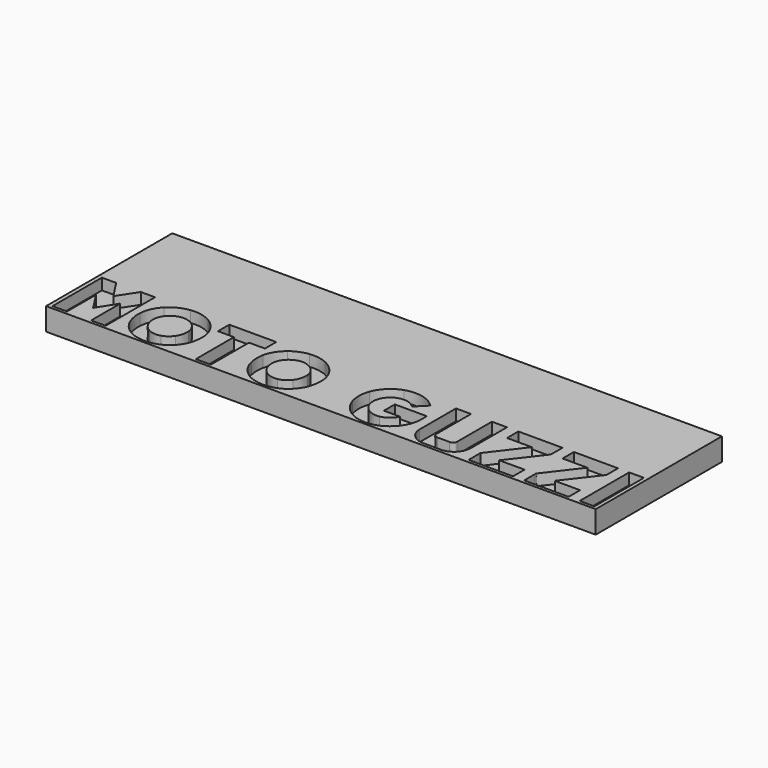
from build123d import *

# Parameters (mm, degrees)
PAD_DEPTH       = 10
POCKET_DEPTH    = 5
POCKET001_DEPTH = 5
POCKET002_DEPTH = 5
POCKET003_DEPTH = 5
POCKET004_DEPTH = 5
POCKET005_DEPTH = 5
POCKET006_DEPTH = 5
POCKET007_DEPTH = 5
POCKET008_DEPTH = 5


with BuildPart() as part:
    # Sketch010 → Pad (new body)
    with BuildSketch(Plane.XY):
        with BuildLine():
            add(Edge.make_bspline(
                [(0, 0), (244.230769, 0)],
                knots=[0, 0, 1756, 1756], degree=1))
            add(Edge.make_bspline(
                [(244.230769, 0), (244.230769, -70.098125)],
                knots=[0, 0, 504, 504], degree=1))
            add(Edge.make_bspline(
                [(244.230769, -70.098125), (0, -70.098125)],
                knots=[0, 0, 1756, 1756], degree=1))
            add(Edge.make_bspline(
                [(0, -70.098125), (0, 0)],
                knots=[0, 0, 504, 504], degree=1))
        make_face()
    extrude(amount=-PAD_DEPTH)

    # Sketch005 → Pocket (cut)
    with BuildSketch(Plane.XY):
        with BuildLine():
            add(Edge.make_bspline(
                [(1.742717, -68.743451), (1.731591, -59.586188), (1.732981, -50.428925), (1.742717, -41.273053)],
                knots=[0, 0, 0, 0, 1, 1, 1, 1], degree=3))
            add(Edge.make_bspline(
                [(1.742717, -41.273053), (3.852615, -41.275835), (5.961122, -41.270271), (8.07102, -41.274444)],
                knots=[0, 0, 0, 0, 1, 1, 1, 1], degree=3))
            add(Edge.make_bspline(
                [(8.07102, -41.274444), (9.898579, -44.057506), (11.716401, -46.846132), (13.549523, -49.623631)],
                knots=[0, 0, 0, 0, 1, 1, 1, 1], degree=3))
            add(Edge.make_bspline(
                [(13.549523, -49.623631), (15.382644, -46.840569), (17.201857, -44.049161), (19.044715, -41.273053)],
                knots=[0, 0, 0, 0, 1, 1, 1, 1], degree=3))
            add(Edge.make_bspline(
                [(19.044715, -41.273053), (21.144877, -41.274444), (23.245039, -41.271662), (25.346592, -41.274444)],
                knots=[0, 0, 0, 0, 1, 1, 1, 1], degree=3))
            add(Edge.make_bspline(
                [(25.346592, -41.274444), (25.347983, -50.430316), (25.349374, -59.586188), (25.346592, -68.74206)],
                knots=[0, 0, 0, 0, 1, 1, 1, 1], degree=3))
            add(Edge.make_bspline(
                [(25.346592, -68.74206), (18.915367, -68.74206)],
                knots=[0, 0, 46.24, 46.24], degree=1))
            add(Edge.make_bspline(
                [(18.915367, -68.74206), (18.905631, -63.341445), (18.934839, -57.940829), (18.901459, -52.540214)],
                knots=[0, 0, 0, 0, 1, 1, 1, 1], degree=3))
            add(Edge.make_bspline(
                [(18.901459, -52.540214), (17.12258, -55.339966), (15.32562, -58.128592), (13.555086, -60.933908)],
                knots=[0, 0, 0, 0, 1, 1, 1, 1], degree=3))
            add(Edge.make_bspline(
                [(13.555086, -60.933908), (11.74839, -58.156409), (9.997328, -55.344139), (8.20315, -52.559685)],
                knots=[0, 0, 0, 0, 1, 1, 1, 1], degree=3))
            add(Edge.make_bspline(
                [(8.20315, -52.559685), (8.139171, -57.951956), (8.193414, -63.347008), (8.175333, -68.740669)],
                knots=[0, 0, 0, 0, 1, 1, 1, 1], degree=3))
            add(Edge.make_bspline(
                [(8.175333, -68.740669), (6.030664, -68.744842), (3.887386, -68.737888), (1.742717, -68.743451)],
                knots=[0, 0, 0, 0, 1, 1, 1, 1], degree=3))
        make_face()
    extrude(amount=-POCKET_DEPTH, mode=Mode.SUBTRACT)

    # Sketch008 → Pocket001 (cut)
    with BuildSketch(Plane.XY):
        with BuildLine():
            add(Edge.make_bspline(
                [(41.107543, -41.13536), (44.328719, -40.738972), (47.683415, -41.439953), (50.45396, -43.136773)],
                knots=[0, 0, 0, 0, 1, 1, 1, 1], degree=3))
            add(Edge.make_bspline(
                [(50.45396, -43.136773), (53.189734, -44.791867), (55.337185, -47.414984), (56.348322, -50.45396)],
                knots=[0, 0, 0, 0, 1, 1, 1, 1], degree=3))
            add(Edge.make_bspline(
                [(56.348322, -50.45396), (57.212031, -53.014489), (57.171697, -55.803115), (56.593109, -58.419277)],
                knots=[0, 0, 0, 0, 1, 1, 1, 1], degree=3))
            add(Edge.make_bspline(
                [(56.593109, -58.419277), (55.957497, -61.302479), (54.419233, -64.009046), (52.146607, -65.911709)],
                knots=[0, 0, 0, 0, 1, 1, 1, 1], degree=3))
            add(Edge.make_bspline(
                [(52.146607, -65.911709), (50.195265, -67.566804), (47.746003, -68.584896), (45.220245, -68.939559)],
                knots=[0, 0, 0, 0, 1, 1, 1, 1], degree=3))
            add(Edge.make_bspline(
                [(45.220245, -68.939559), (42.69866, -69.287268), (40.078325, -69.092551), (37.681915, -68.206588)],
                knots=[0, 0, 0, 0, 1, 1, 1, 1], degree=3))
            add(Edge.make_bspline(
                [(37.681915, -68.206588), (35.053235, -67.251084), (32.733321, -65.448561), (31.188102, -63.113348)],
                knots=[0, 0, 0, 0, 1, 1, 1, 1], degree=3))
            add(Edge.make_bspline(
                [(31.188102, -63.113348), (29.363326, -60.408172), (28.578894, -57.075729), (28.741622, -53.836473)],
                knots=[0, 0, 0, 0, 1, 1, 1, 1], degree=3))
            add(Edge.make_bspline(
                [(28.741622, -53.836473), (28.900177, -50.626424), (30.33552, -47.527641), (32.601192, -45.260579)],
                knots=[0, 0, 0, 0, 1, 1, 1, 1], degree=3))
            add(Edge.make_bspline(
                [(32.601192, -45.260579), (34.854346, -42.967091), (37.918357, -41.508104), (41.107543, -41.13536)],
                knots=[0, 0, 0, 0, 1, 1, 1, 1], degree=3))
        make_face()
        with BuildLine():
            add(Edge.make_bspline(
                [(41.516449, -47.402466), (43.307846, -47.061711), (45.207727, -47.431674), (46.764073, -48.376051)],
                knots=[0, 0, 0, 0, 1, 1, 1, 1], degree=3))
            add(Edge.make_bspline(
                [(46.764073, -48.376051), (48.778003, -49.580515), (50.27037, -51.722402), (50.47065, -54.086823)],
                knots=[0, 0, 0, 0, 1, 1, 1, 1], degree=3))
            add(Edge.make_bspline(
                [(50.47065, -54.086823), (50.593044, -55.971406), (50.100688, -57.896322), (49.058952, -59.474921)],
                knots=[0, 0, 0, 0, 1, 1, 1, 1], degree=3))
            add(Edge.make_bspline(
                [(49.058952, -59.474921), (48.086757, -60.929735), (46.630552, -62.082738), (44.937905, -62.56814)],
                knots=[0, 0, 0, 0, 1, 1, 1, 1], degree=3))
            add(Edge.make_bspline(
                [(44.937905, -62.56814), (43.140945, -63.110566), (41.131188, -62.915849), (39.478875, -62.020151)],
                knots=[0, 0, 0, 0, 1, 1, 1, 1], degree=3))
            add(Edge.make_bspline(
                [(39.478875, -62.020151), (37.371758, -60.924172), (35.911381, -58.786457), (35.445451, -56.480452)],
                knots=[0, 0, 0, 0, 1, 1, 1, 1], degree=3))
            add(Edge.make_bspline(
                [(35.445451, -56.480452), (35.136685, -55.015902), (35.172847, -53.441475), (35.773688, -52.05203)],
                knots=[0, 0, 0, 0, 1, 1, 1, 1], degree=3))
            add(Edge.make_bspline(
                [(35.773688, -52.05203), (36.759791, -49.677874), (38.996255, -47.886477), (41.516449, -47.402466)],
                knots=[0, 0, 0, 0, 1, 1, 1, 1], degree=3))
        make_face(mode=Mode.SUBTRACT)
    extrude(amount=-POCKET001_DEPTH, mode=Mode.SUBTRACT)

    # Sketch006 → Pocket002 (cut)
    with BuildSketch(Plane.XY):
        with BuildLine():
            add(Edge.make_bspline(
                [(136.315818, -41.780708), (140.588466, -40.282778), (145.57044, -41.024093), (149.188004, -43.755695)],
                knots=[0, 0, 0, 0, 1, 1, 1, 1], degree=3))
            add(Edge.make_bspline(
                [(149.188004, -43.755695), (149.774936, -44.186854), (150.31319, -44.67921), (150.836144, -45.186865)],
                knots=[0, 0, 0, 0, 1, 1, 1, 1], degree=3))
            add(Edge.make_bspline(
                [(150.836144, -45.186865), (149.317351, -46.694531), (147.827766, -48.232795), (146.283939, -49.714035)],
                knots=[0, 0, 0, 0, 1, 1, 1, 1], degree=3))
            add(Edge.make_bspline(
                [(146.283939, -49.714035), (144.862504, -48.234186), (142.812412, -47.370477), (140.759539, -47.42611)],
                knots=[0, 0, 0, 0, 1, 1, 1, 1], degree=3))
            add(Edge.make_bspline(
                [(140.759539, -47.42611), (139.027948, -47.433065), (137.321393, -48.097884), (136.005662, -49.214725)],
                knots=[0, 0, 0, 0, 1, 1, 1, 1], degree=3))
            add(Edge.make_bspline(
                [(136.005662, -49.214725), (134.071009, -50.822532), (133.015365, -53.43313), (133.333866, -55.932462)],
                knots=[0, 0, 0, 0, 1, 1, 1, 1], degree=3))
            add(Edge.make_bspline(
                [(133.333866, -55.932462), (133.563354, -58.020107), (134.709403, -59.983967), (136.404832, -61.22042)],
                knots=[0, 0, 0, 0, 1, 1, 1, 1], degree=3))
            add(Edge.make_bspline(
                [(136.404832, -61.22042), (138.027937, -62.424884), (140.148962, -62.938102), (142.14203, -62.586221)],
                knots=[0, 0, 0, 0, 1, 1, 1, 1], degree=3))
            add(Edge.make_bspline(
                [(142.14203, -62.586221), (144.585728, -62.182878), (146.744305, -60.494404), (147.770742, -58.246813)],
                knots=[0, 0, 0, 0, 1, 1, 1, 1], degree=3))
            add(Edge.make_bspline(
                [(147.770742, -58.246813), (145.385459, -58.244031), (143.000175, -58.245422), (140.614892, -58.246813)],
                knots=[0, 0, 0, 0, 1, 1, 1, 1], degree=3))
            add(Edge.make_bspline(
                [(140.614892, -58.246813), (140.61211, -56.216193), (140.614892, -54.186963), (140.613501, -52.156343)],
                knots=[0, 0, 0, 0, 1, 1, 1, 1], degree=3))
            add(Edge.make_bspline(
                [(140.613501, -52.156343), (154.834797, -52.156343)],
                knots=[0, 0, 102.25, 102.25], degree=1))
            add(Edge.make_bspline(
                [(154.834797, -52.156343), (154.779164, -53.876807), (154.985007, -55.609788), (154.684587, -57.314953)],
                knots=[0, 0, 0, 0, 1, 1, 1, 1], degree=3))
            add(Edge.make_bspline(
                [(154.684587, -57.314953), (154.214484, -60.253789), (152.783314, -63.035461), (150.640036, -65.102243)],
                knots=[0, 0, 0, 0, 1, 1, 1, 1], degree=3))
            add(Edge.make_bspline(
                [(150.640036, -65.102243), (148.086462, -67.648863), (144.500887, -69.110632), (140.895841, -69.096723)],
                knots=[0, 0, 0, 0, 1, 1, 1, 1], degree=3))
            add(Edge.make_bspline(
                [(140.895841, -69.096723), (137.285231, -69.12454), (133.698265, -67.664162), (131.132173, -65.125887)],
                knots=[0, 0, 0, 0, 1, 1, 1, 1], degree=3))
            add(Edge.make_bspline(
                [(131.132173, -65.125887), (129.509068, -63.562588), (128.29765, -61.587601), (127.588324, -59.451277)],
                knots=[0, 0, 0, 0, 1, 1, 1, 1], degree=3))
            add(Edge.make_bspline(
                [(127.588324, -59.451277), (126.620302, -56.465152), (126.66759, -53.150791), (127.749661, -50.202219)],
                knots=[0, 0, 0, 0, 1, 1, 1, 1], degree=3))
            add(Edge.make_bspline(
                [(127.749661, -50.202219), (129.158577, -46.305097), (132.389489, -43.113129), (136.315818, -41.780708)],
                knots=[0, 0, 0, 0, 1, 1, 1, 1], degree=3))
        make_face()
    extrude(amount=-POCKET002_DEPTH, mode=Mode.SUBTRACT)

    # Sketch007 → Pocket003 (cut)
    with BuildSketch(Plane.XY):
        with BuildLine():
            add(Edge.make_bspline(
                [(93.829957, -41.139533), (96.550431, -40.801559), (99.371047, -41.231328), (101.852298, -42.403802)],
                knots=[0, 0, 0, 0, 1, 1, 1, 1], degree=3))
            add(Edge.make_bspline(
                [(101.852298, -42.403802), (104.198638, -43.501172), (106.247339, -45.249452), (107.654865, -47.428892)],
                knots=[0, 0, 0, 0, 1, 1, 1, 1], degree=3))
            add(Edge.make_bspline(
                [(107.654865, -47.428892), (109.049873, -49.559653), (109.814833, -52.109055), (109.773108, -54.659848)],
                knots=[0, 0, 0, 0, 1, 1, 1, 1], degree=3))
            add(Edge.make_bspline(
                [(109.773108, -54.659848), (109.787016, -57.619546), (108.987285, -60.608452), (107.339145, -63.081358)],
                knots=[0, 0, 0, 0, 1, 1, 1, 1], degree=3))
            add(Edge.make_bspline(
                [(107.339145, -63.081358), (106.048449, -65.013229), (104.25288, -66.614081), (102.159672, -67.632173)],
                knots=[0, 0, 0, 0, 1, 1, 1, 1], degree=3))
            add(Edge.make_bspline(
                [(102.159672, -67.632173), (99.533774, -68.943731), (96.505925, -69.334556), (93.608814, -68.975721)],
                knots=[0, 0, 0, 0, 1, 1, 1, 1], degree=3))
            add(Edge.make_bspline(
                [(93.608814, -68.975721), (90.854959, -68.634966), (88.188727, -67.486135), (86.121945, -65.622415)],
                knots=[0, 0, 0, 0, 1, 1, 1, 1], degree=3))
            add(Edge.make_bspline(
                [(86.121945, -65.622415), (83.980057, -63.723925), (82.523852, -61.111935), (81.88824, -58.331654)],
                knots=[0, 0, 0, 0, 1, 1, 1, 1], degree=3))
            add(Edge.make_bspline(
                [(81.88824, -58.331654), (81.411184, -56.171686), (81.298526, -53.903233), (81.785318, -51.736311)],
                knots=[0, 0, 0, 0, 1, 1, 1, 1], degree=3))
            add(Edge.make_bspline(
                [(81.785318, -51.736311), (82.440402, -48.754359), (84.191464, -46.047792), (86.583702, -44.160428)],
                knots=[0, 0, 0, 0, 1, 1, 1, 1], degree=3))
            add(Edge.make_bspline(
                [(86.583702, -44.160428), (88.651875, -42.49977), (91.198495, -41.455252), (93.829957, -41.139533)],
                knots=[0, 0, 0, 0, 1, 1, 1, 1], degree=3))
        make_face()
        with BuildLine():
            add(Edge.make_bspline(
                [(94.241644, -47.412202), (96.001051, -47.068666), (97.875898, -47.39273), (99.425289, -48.28982)],
                knots=[0, 0, 0, 0, 1, 1, 1, 1], degree=3))
            add(Edge.make_bspline(
                [(99.425289, -48.28982), (101.430874, -49.426132), (102.924632, -51.501259), (103.193063, -53.810047)],
                knots=[0, 0, 0, 0, 1, 1, 1, 1], degree=3))
            add(Edge.make_bspline(
                [(103.193063, -53.810047), (103.407252, -55.957497), (102.816147, -58.193961), (101.497634, -59.913034)],
                knots=[0, 0, 0, 0, 1, 1, 1, 1], degree=3))
            add(Edge.make_bspline(
                [(101.497634, -59.913034), (100.400265, -61.37063), (98.756297, -62.422102), (96.953774, -62.743385)],
                knots=[0, 0, 0, 0, 1, 1, 1, 1], degree=3))
            add(Edge.make_bspline(
                [(96.953774, -62.743385), (94.923154, -63.139774), (92.740932, -62.58483), (91.126172, -61.296916)],
                knots=[0, 0, 0, 0, 1, 1, 1, 1], degree=3))
            add(Edge.make_bspline(
                [(91.126172, -61.296916), (89.234635, -59.821239), (88.140047, -57.456818), (88.032953, -55.07988)],
                knots=[0, 0, 0, 0, 1, 1, 1, 1], degree=3))
            add(Edge.make_bspline(
                [(88.032953, -55.07988), (87.767303, -51.427545), (90.725611, -48.068677), (94.241644, -47.412202)],
                knots=[0, 0, 0, 0, 1, 1, 1, 1], degree=3))
        make_face(mode=Mode.SUBTRACT)
    extrude(amount=-POCKET003_DEPTH, mode=Mode.SUBTRACT)

    # Sketch004 → Pocket004 (cut)
    with BuildSketch(Plane.XY):
        with BuildLine():
            add(Edge.make_bspline(
                [(58.346953, -47.566585), (58.34139, -45.467814), (58.338608, -43.370433), (58.348344, -41.271662)],
                knots=[0, 0, 0, 0, 1, 1, 1, 1], degree=3))
            add(Edge.make_bspline(
                [(58.348344, -41.271662), (65.301132, -41.273053), (72.25253, -41.274444), (79.203927, -41.271662)],
                knots=[0, 0, 0, 0, 1, 1, 1, 1], degree=3))
            add(Edge.make_bspline(
                [(79.203927, -41.271662), (79.222008, -43.366261), (79.196973, -45.46225), (79.217836, -47.55824)],
                knots=[0, 0, 0, 0, 1, 1, 1, 1], degree=3))
            add(Edge.make_bspline(
                [(79.217836, -47.55824), (76.850633, -47.577712), (74.48343, -47.561022), (72.116228, -47.566585)],
                knots=[0, 0, 0, 0, 1, 1, 1, 1], degree=3))
            add(Edge.make_bspline(
                [(72.116228, -47.566585), (72.112055, -54.626467), (72.125964, -61.684959), (72.109274, -68.744842)],
                knots=[0, 0, 0, 0, 1, 1, 1, 1], degree=3))
            add(Edge.make_bspline(
                [(72.109274, -68.744842), (69.886718, -68.739279), (67.662772, -68.74206), (65.440216, -68.743451)],
                knots=[0, 0, 0, 0, 1, 1, 1, 1], degree=3))
            add(Edge.make_bspline(
                [(65.440216, -68.743451), (65.431871, -61.683568), (65.438825, -54.625077), (65.436043, -47.566585)],
                knots=[0, 0, 0, 0, 1, 1, 1, 1], degree=3))
            add(Edge.make_bspline(
                [(65.436043, -47.566585), (58.346953, -47.566585)],
                knots=[0, 0, 50.97, 50.97], degree=1))
        make_face()
    extrude(amount=-POCKET004_DEPTH, mode=Mode.SUBTRACT)

    # Sketch003 → Pocket005 (cut)
    with BuildSketch(Plane.XY):
        with BuildLine():
            add(Edge.make_bspline(
                [(159.076846, -41.274444), (161.303575, -41.273053), (163.530303, -41.273053), (165.757031, -41.274444)],
                knots=[0, 0, 0, 0, 1, 1, 1, 1], degree=3))
            add(Edge.make_bspline(
                [(165.757031, -41.274444), (165.758422, -47.682024), (165.752858, -54.090996), (165.759813, -60.498576)],
                knots=[0, 0, 0, 0, 1, 1, 1, 1], degree=3))
            add(Edge.make_bspline(
                [(165.759813, -60.498576), (165.72226, -61.493024), (166.615177, -62.370641), (167.606842, -62.33587)],
                knots=[0, 0, 0, 0, 1, 1, 1, 1], degree=3))
            add(Edge.make_bspline(
                [(167.606842, -62.33587), (169.456654, -62.342825), (171.309247, -62.342825), (173.16045, -62.337261)],
                knots=[0, 0, 0, 0, 1, 1, 1, 1], degree=3))
            add(Edge.make_bspline(
                [(173.16045, -62.337261), (174.103437, -62.378986), (175.008871, -61.594555), (175.032515, -60.63766)],
                knots=[0, 0, 0, 0, 1, 1, 1, 1], degree=3))
            add(Edge.make_bspline(
                [(175.032515, -60.63766), (175.04086, -54.182791), (175.026952, -47.727922), (175.039469, -41.273053)],
                knots=[0, 0, 0, 0, 1, 1, 1, 1], degree=3))
            add(Edge.make_bspline(
                [(175.039469, -41.273053), (177.277324, -41.275835), (179.515179, -41.26888), (181.753034, -41.275835)],
                knots=[0, 0, 0, 0, 1, 1, 1, 1], degree=3))
            add(Edge.make_bspline(
                [(181.753034, -41.275835), (181.751643, -47.915685), (181.750252, -54.555535), (181.754424, -61.193994)],
                knots=[0, 0, 0, 0, 1, 1, 1, 1], degree=3))
            add(Edge.make_bspline(
                [(181.754424, -61.193994), (181.811449, -63.404032), (180.796139, -65.607116), (179.092365, -67.01186)],
                knots=[0, 0, 0, 0, 1, 1, 1, 1], degree=3))
            add(Edge.make_bspline(
                [(179.092365, -67.01186), (177.793324, -68.117575), (176.099286, -68.722588), (174.396903, -68.736497)],
                knots=[0, 0, 0, 0, 1, 1, 1, 1], degree=3))
            add(Edge.make_bspline(
                [(174.396903, -68.736497), (172.452514, -68.749014), (170.506735, -68.737888), (168.560956, -68.74206)],
                knots=[0, 0, 0, 0, 1, 1, 1, 1], degree=3))
            add(Edge.make_bspline(
                [(168.560956, -68.74206), (166.91977, -68.732324), (165.202087, -68.872799), (163.661041, -68.185726)],
                knots=[0, 0, 0, 0, 1, 1, 1, 1], degree=3))
            add(Edge.make_bspline(
                [(163.661041, -68.185726), (161.026798, -67.135645), (159.131089, -64.452723), (159.075456, -61.611245)],
                knots=[0, 0, 0, 0, 1, 1, 1, 1], degree=3))
            add(Edge.make_bspline(
                [(159.075456, -61.611245), (159.079628, -54.832311), (159.075456, -48.053377), (159.076846, -41.274444)],
                knots=[0, 0, 0, 0, 1, 1, 1, 1], degree=3))
        make_face()
    extrude(amount=-POCKET005_DEPTH, mode=Mode.SUBTRACT)

    # Sketch002 → Pocket006 (cut)
    with BuildSketch(Plane.XY):
        with BuildLine():
            add(Edge.make_bspline(
                [(186.78925, -41.274444), (193.326178, -41.271662), (199.863107, -41.273053), (206.400035, -41.274444)],
                knots=[0, 0, 0, 0, 1, 1, 1, 1], degree=3))
            add(Edge.make_bspline(
                [(206.400035, -41.274444), (206.397253, -43.444148), (206.404208, -45.616633), (206.397253, -47.787728)],
                knots=[0, 0, 0, 0, 1, 1, 1, 1], degree=3))
            add(Edge.make_bspline(
                [(206.397253, -47.787728), (202.618352, -52.620882), (198.88674, -57.491589), (195.123138, -62.337261)],
                knots=[0, 0, 0, 0, 1, 1, 1, 1], degree=3))
            add(Edge.make_bspline(
                [(195.123138, -62.337261), (198.882567, -62.342825), (202.640606, -62.340043), (206.400035, -62.338652)],
                knots=[0, 0, 0, 0, 1, 1, 1, 1], degree=3))
            add(Edge.make_bspline(
                [(206.400035, -62.338652), (206.400035, -68.74206)],
                knots=[0, 0, 46.04, 46.04], degree=1))
            add(Edge.make_bspline(
                [(206.400035, -68.74206), (199.817209, -68.740669), (193.232992, -68.74206), (186.650166, -68.74206)],
                knots=[0, 0, 0, 0, 1, 1, 1, 1], degree=3))
            add(Edge.make_bspline(
                [(186.650166, -68.74206), (186.650166, -62.153671)],
                knots=[0, 0, 47.37, 47.37], degree=1))
            add(Edge.make_bspline(
                [(186.650166, -62.153671), (190.370652, -57.2927), (194.092529, -52.431729), (197.807451, -47.566585)],
                knots=[0, 0, 0, 0, 1, 1, 1, 1], degree=3))
            add(Edge.make_bspline(
                [(197.807451, -47.566585), (186.78925, -47.566585)],
                knots=[0, 0, 79.22, 79.22], degree=1))
            add(Edge.make_bspline(
                [(186.78925, -47.566585), (186.78925, -41.274444)],
                knots=[0, 0, 45.24, 45.24], degree=1))
        make_face()
    extrude(amount=-POCKET006_DEPTH, mode=Mode.SUBTRACT)

    # Sketch001 → Pocket007 (cut)
    with BuildSketch(Plane.XY):
        with BuildLine():
            add(Edge.make_bspline(
                [(211.469632, -47.562412), (211.48354, -45.465032), (211.465459, -43.369042), (211.479367, -41.273053)],
                knots=[0, 0, 0, 0, 1, 1, 1, 1], degree=3))
            add(Edge.make_bspline(
                [(211.479367, -41.273053), (218.014905, -41.274444), (224.551833, -41.271662), (231.088762, -41.274444)],
                knots=[0, 0, 0, 0, 1, 1, 1, 1], degree=3))
            add(Edge.make_bspline(
                [(231.088762, -41.274444), (231.081807, -43.424676), (231.105452, -45.574908), (231.077635, -47.723749)],
                knots=[0, 0, 0, 0, 1, 1, 1, 1], degree=3))
            add(Edge.make_bspline(
                [(231.077635, -47.723749), (229.80502, -49.47203), (228.433656, -51.15355), (227.12627, -52.878187)],
                knots=[0, 0, 0, 0, 1, 1, 1, 1], degree=3))
            add(Edge.make_bspline(
                [(227.12627, -52.878187), (224.695089, -56.032603), (222.25, -59.175891), (219.828555, -62.337261)],
                knots=[0, 0, 0, 0, 1, 1, 1, 1], degree=3))
            add(Edge.make_bspline(
                [(219.828555, -62.337261), (223.582421, -62.344215), (227.334896, -62.33448), (231.088762, -62.342825)],
                knots=[0, 0, 0, 0, 1, 1, 1, 1], degree=3))
            add(Edge.make_bspline(
                [(231.088762, -62.342825), (231.08598, -64.476367), (231.095716, -66.609909), (231.084589, -68.743451)],
                knots=[0, 0, 0, 0, 1, 1, 1, 1], degree=3))
            add(Edge.make_bspline(
                [(231.084589, -68.743451), (224.503154, -68.740669), (217.921719, -68.740669), (211.341675, -68.743451)],
                knots=[0, 0, 0, 0, 1, 1, 1, 1], degree=3))
            add(Edge.make_bspline(
                [(211.341675, -68.743451), (211.324985, -66.691968), (211.343066, -64.640485), (211.331939, -62.589003)],
                knots=[0, 0, 0, 0, 1, 1, 1, 1], degree=3))
            add(Edge.make_bspline(
                [(211.331939, -62.589003), (211.336111, -62.372032), (211.304122, -62.125854), (211.476586, -61.958954)],
                knots=[0, 0, 0, 0, 1, 1, 1, 1], degree=3))
            add(Edge.make_bspline(
                [(211.476586, -61.958954), (215.147001, -57.163352), (218.810463, -52.362187), (222.487833, -47.569367)],
                knots=[0, 0, 0, 0, 1, 1, 1, 1], degree=3))
            add(Edge.make_bspline(
                [(222.487833, -47.569367), (218.814636, -47.559631), (215.142829, -47.573539), (211.469632, -47.562412)],
                knots=[0, 0, 0, 0, 1, 1, 1, 1], degree=3))
        make_face()
    extrude(amount=-POCKET007_DEPTH, mode=Mode.SUBTRACT)

    # Sketch → Pocket008 (cut)
    with BuildSketch(Plane.XY):
        with BuildLine():
            add(Edge.make_bspline(
                [(236.024838, -41.273053), (238.215404, -41.274444), (240.40458, -41.271662), (242.595146, -41.274444)],
                knots=[0, 0, 0, 0, 1, 1, 1, 1], degree=3))
            add(Edge.make_bspline(
                [(242.595146, -41.274444), (242.596537, -50.430316), (242.596537, -59.586188), (242.595146, -68.740669)],
                knots=[0, 0, 0, 0, 1, 1, 1, 1], degree=3))
            add(Edge.make_bspline(
                [(242.595146, -68.740669), (240.40458, -68.743451), (238.215404, -68.740669), (236.024838, -68.74206)],
                knots=[0, 0, 0, 0, 1, 1, 1, 1], degree=3))
            add(Edge.make_bspline(
                [(236.024838, -68.74206), (236.024838, -41.273053)],
                knots=[0, 0, 197.5, 197.5], degree=1))
        make_face()
    extrude(amount=-POCKET008_DEPTH, mode=Mode.SUBTRACT)


solid = part.part
